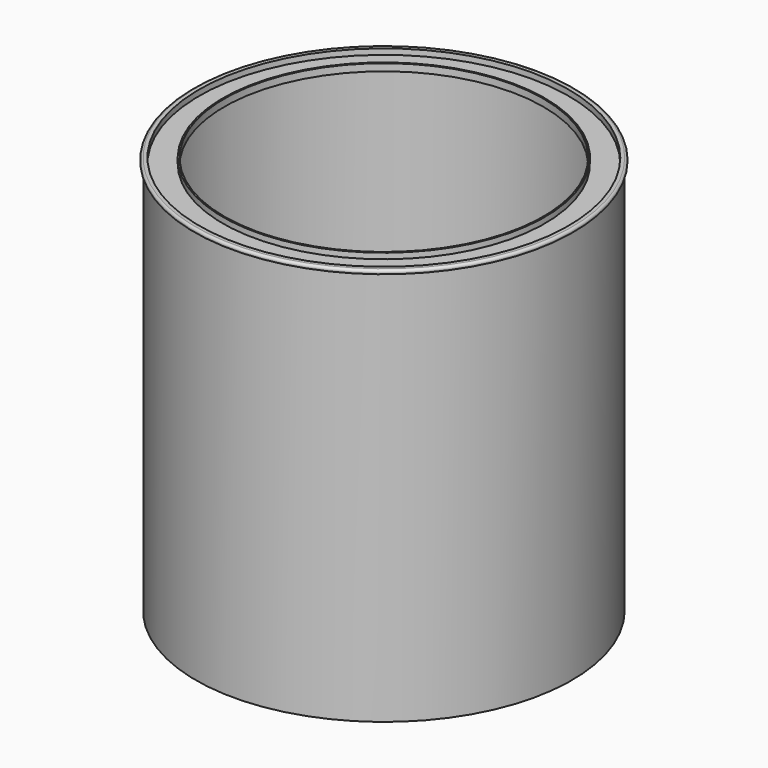
from build123d import *


with BuildPart() as f1:
    # F0 (on Right) → F1 (revolve)
    with BuildSketch(Plane.YZ):
        with BuildLine():
            Line((0, 0.635), (0, 0))
            Line((0, 0), (83.82, 0))
            Line((83.82, 0), (83.82, 175.768))
            ThreePointArc((83.82, 175.768), (84.836, 176.784), (83.82, 177.8))
            Line((83.82, 177.8), (82.296, 177.8))
            Line((82.296, 177.8), (82.296, 175.26))
            Line((82.296, 175.26), (71.755, 175.26))
            Line((71.755, 175.26), (71.755, 177.8))
            Line((71.755, 177.8), (71.12, 177.8))
            Line((71.12, 177.8), (71.12, 174.625))
            Line((71.12, 174.625), (82.931, 174.625))
            Line((82.931, 174.625), (82.931, 177.165))
            Line((82.931, 177.165), (83.185, 177.165))
            Line((83.185, 177.165), (83.185, 0.635))
            Line((83.185, 0.635), (0, 0.635))
        make_face()
    revolve(axis=Axis((0, 0, 48.229507), (0, 0, 1)))


solid = f1.part
